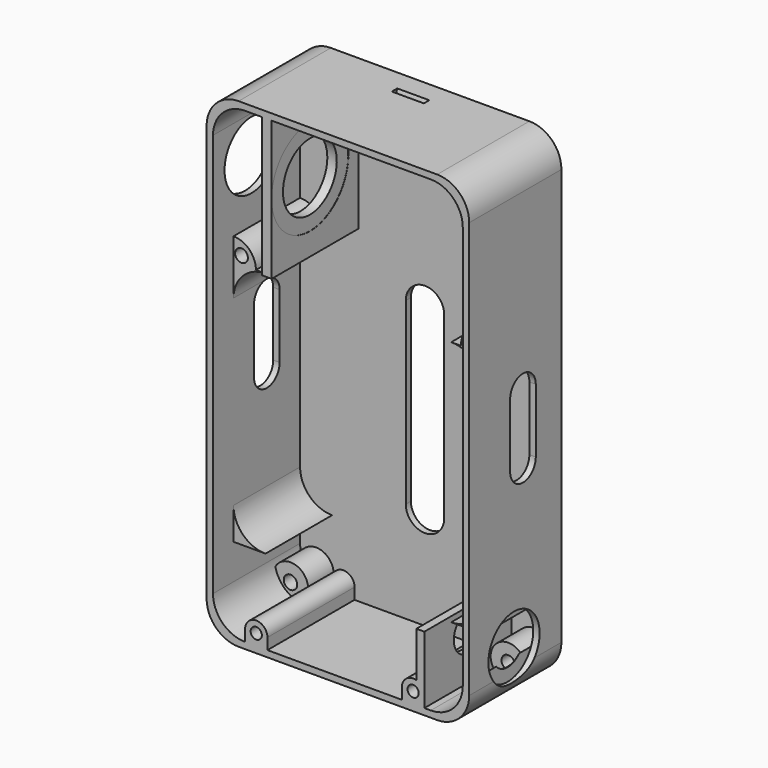
from build123d import *

# Parameters (mm, degrees)
CYLINDER105_R             = 6
CYLINDER105_DEPTH         = 2
BOX042_W                  = 12
BOX042_H                  = 2
BOX042_DEPTH              = 56
CYLINDER106_R             = 6
CYLINDER106_DEPTH         = 2
CYLINDER104_W             = 5
CYLINDER104_H             = 82
CYLINDER104_ANGLE         = 180
BOX041_W                  = 82
BOX041_H                  = 5
BOX041_DEPTH              = 10
CUT048_PLACEMENT_ANGLE    = 180
CYLINDER103_W             = 5
CYLINDER103_H             = 82
CYLINDER103_ANGLE         = 180
BOX040_W                  = 82
BOX040_H                  = 5
BOX040_DEPTH              = 10
BOX039_W                  = 82
BOX039_H                  = 30
BOX039_DEPTH              = 10
CUT049_PLACEMENT_ANGLE    = 90
CYLINDER097_R             = 10
CYLINDER097_DEPTH         = 5
CYLINDER096_R             = 6
CYLINDER096_DEPTH         = 20
FUSION028_PLACEMENT_ANGLE = 90
TUBE_R                    = 7
TUBE_R_2                  = 5
TUBE_DEPTH                = 10
CYLINDER099_R             = 15
CYLINDER099_DEPTH         = 2.25
CYLINDER098_R             = 10.5
CYLINDER098_DEPTH         = 36
FUSION029_PLACEMENT_ANGLE = 270
CYLINDER102_W             = 5
CYLINDER102_H             = 60
CYLINDER102_ANGLE         = 90
BOX038_W                  = 3
BOX038_H                  = 43.5
BOX038_DEPTH              = 34
CYLINDER093_R             = 2.1
CYLINDER093_DEPTH         = 7
CYLINDER094_R             = 2.1
CYLINDER094_DEPTH         = 7
CYLINDER095_R             = 2.1
CYLINDER095_DEPTH         = 7
CYLINDER092_R             = 2.1
CYLINDER092_DEPTH         = 7
CYLINDER087_R             = 3.75
CYLINDER087_DEPTH         = 7
CYLINDER089_R             = 3.75
CYLINDER089_DEPTH         = 7
CYLINDER091_R             = 3.75
CYLINDER091_DEPTH         = 7
CYLINDER085_R             = 3.75
CYLINDER085_DEPTH         = 7
CYLINDER086_R             = 5.5
CYLINDER086_DEPTH         = 12
CYLINDER088_R             = 5.5
CYLINDER088_DEPTH         = 12
CYLINDER090_R             = 5.5
CYLINDER090_DEPTH         = 12
CYLINDER030_R             = 2
CYLINDER030_DEPTH         = 8
CYLINDER029_R             = 2
CYLINDER029_DEPTH         = 8
CYLINDER027_W             = 7
CYLINDER027_H             = 26
CYLINDER027_ANGLE         = 90
CYLINDER028_W             = 7
CYLINDER028_H             = 26
CYLINDER028_ANGLE         = 90
CYLINDER022_R             = 1.75
CYLINDER022_DEPTH         = 8
CYLINDER026_R             = 7
CYLINDER026_DEPTH         = 5
CYLINDER025_R             = 6
CYLINDER025_DEPTH         = 20
FUSION007_PLACEMENT_ANGLE = 90
CYLINDER024_R             = 1.75
CYLINDER024_DEPTH         = 8
CYLINDER023_R             = 3.5
CYLINDER023_DEPTH         = 34
BOX022_W                  = 7
BOX022_H                  = 34
BOX022_DEPTH              = 3.5
BOX023_W                  = 7
BOX023_H                  = 34
BOX023_DEPTH              = 3.5
BOX024_W                  = 2.5
BOX024_H                  = 34
BOX024_DEPTH              = 17.5
CYLINDER017_W             = 10
CYLINDER017_H             = 26
CYLINDER017_ANGLE         = 90
BOX018_W                  = 10
BOX018_H                  = 26
BOX018_DEPTH              = 10
CUT018_PLACEMENT_ANGLE    = 180
CYLINDER018_W             = 10
CYLINDER018_H             = 26
CYLINDER018_ANGLE         = 90
BOX019_W                  = 10
BOX019_H                  = 26
BOX019_DEPTH              = 10
CUT019_PLACEMENT_ANGLE    = 90
CYLINDER019_W             = 10
CYLINDER019_H             = 26
CYLINDER019_ANGLE         = 90
BOX020_W                  = 10
BOX020_H                  = 26
BOX020_DEPTH              = 10
CYLINDER020_W             = 10
CYLINDER020_H             = 26
CYLINDER020_ANGLE         = 90
BOX021_W                  = 10
BOX021_H                  = 26
BOX021_DEPTH              = 10
CUT021_PLACEMENT_ANGLE    = 90
CYLINDER014_W             = 10
CYLINDER014_H             = 34
CYLINDER014_ANGLE         = 90
BOX015_W                  = 10
BOX015_H                  = 34
BOX015_DEPTH              = 10
CUT013_PLACEMENT_ANGLE    = 180
CYLINDER015_W             = 10
CYLINDER015_H             = 34
CYLINDER015_ANGLE         = 90
BOX016_W                  = 10
BOX016_H                  = 34
BOX016_DEPTH              = 10
CUT014_PLACEMENT_ANGLE    = 180
CYLINDER016_W             = 10
CYLINDER016_H             = 34
CYLINDER016_ANGLE         = 90
BOX017_W                  = 10
BOX017_H                  = 34
BOX017_DEPTH              = 10
CUT015_PITCH_ANGLE        = -90
CUT015_PLACEMENT_ANGLE    = 180
CYLINDER013_W             = 10
CYLINDER013_H             = 34
CYLINDER013_ANGLE         = 90
BOX013_W                  = 10
BOX013_H                  = 34
BOX013_DEPTH              = 10
CUT012_PITCH_ANGLE        = 90
CUT012_PLACEMENT_ANGLE    = -180
BOX014_W                  = 78
BOX014_H                  = 34
BOX014_DEPTH              = 146
CYLINDER009_W             = 10
CYLINDER009_H             = 36
CYLINDER009_ANGLE         = 90
BOX009_W                  = 10
BOX009_H                  = 36
BOX009_DEPTH              = 10
CUT007_PLACEMENT_ANGLE    = 180
CYLINDER010_W             = 10
CYLINDER010_H             = 36
CYLINDER010_ANGLE         = 90
BOX010_W                  = 10
BOX010_H                  = 36
BOX010_DEPTH              = 10
CUT008_PLACEMENT_ANGLE    = 180
CYLINDER011_W             = 10
CYLINDER011_H             = 36
CYLINDER011_ANGLE         = 90
BOX011_W                  = 10
BOX011_H                  = 36
BOX011_DEPTH              = 10
CUT009_PITCH_ANGLE        = -90
CUT009_PLACEMENT_ANGLE    = -180
CYLINDER008_W             = 10
CYLINDER008_H             = 36
CYLINDER008_ANGLE         = 90
BOX007_W                  = 10
BOX007_H                  = 36
BOX007_DEPTH              = 10
CUT006_PITCH_ANGLE        = 90
CUT006_PLACEMENT_ANGLE    = -180
BOX008_W                  = 82
BOX008_H                  = 36
BOX008_DEPTH              = 150
CYLINDER021_R             = 3.5
CYLINDER021_DEPTH         = 34
CYLINDER084_R             = 5.5
CYLINDER084_DEPTH         = 12


with BuildPart() as cylinder105:
    # Cylinder105 → Cylinder105 (new body)
    with BuildSketch(Plane(origin=(6, 0, 0), x_dir=(-1, 0, 0), z_dir=(0, 1, 0))):
        Circle(CYLINDER105_R)
    extrude(amount=CYLINDER105_DEPTH)


with BuildPart() as cube034:
    # Box042 → Box042 (new body)
    with BuildSketch(Plane.XY):
        with Locations((6, 1)):
            Rectangle(BOX042_W, BOX042_H)
    extrude(amount=BOX042_DEPTH)


with BuildPart() as obj1:
    # Cylinder106 → Cylinder106 (new body)
    with BuildSketch(Plane(origin=(6, 0, 56), x_dir=(-1, 0, 0), z_dir=(0, 1, 0))):
        Circle(CYLINDER106_R)
    extrude(amount=CYLINDER106_DEPTH)

    # Fusion035: union Cylinder105, Cube034
    add(cylinder105.part)
    add(cube034.part)


with BuildPart() as obj1_1:
    # Fusion035 placement: moved
    add(obj1.part.moved(Location((33, 24, 31.5))))


with BuildPart() as cylinder104:
    # Cylinder104 → Cylinder104 (revolve)
    with BuildSketch(Plane(origin=(0, 5, 5), x_dir=(0, 0, 1), z_dir=(0, 1, 0))):
        with Locations((2.5, 41)):
            Rectangle(CYLINDER104_W, CYLINDER104_H)
    revolve(axis=Axis((0, 5, 5), (1, 0, 0)), revolution_arc=CYLINDER104_ANGLE)


with BuildPart() as cornercuts001:
    # Box041 → Box041 (new body)
    with BuildSketch(Plane.XY):
        with Locations((41, 2.5)):
            Rectangle(BOX041_W, BOX041_H)
    extrude(amount=BOX041_DEPTH)

    # Cut048: cut Cylinder104
    add(cylinder104.part, mode=Mode.SUBTRACT)


with BuildPart() as cornercuts001_1:
    # Cut048 placement: moved
    add(cornercuts001.part.moved(Location((0, 30, 10))).rotate(Axis((0, 30, 10), (1, 0, 0)), CUT048_PLACEMENT_ANGLE))


with BuildPart() as cylinder103:
    # Cylinder103 → Cylinder103 (revolve)
    with BuildSketch(Plane(origin=(0, 5, 5), x_dir=(0, 0, 1), z_dir=(0, 1, 0))):
        with Locations((2.5, 41)):
            Rectangle(CYLINDER103_W, CYLINDER103_H)
    revolve(axis=Axis((0, 5, 5), (1, 0, 0)), revolution_arc=CYLINDER103_ANGLE)


with BuildPart() as fusion034:
    # Box040 → Box040 (new body)
    with BuildSketch(Plane.XY):
        with Locations((41, 2.5)):
            Rectangle(BOX040_W, BOX040_H)
    extrude(amount=BOX040_DEPTH)

    # Cut047: cut Cylinder103
    add(cylinder103.part, mode=Mode.SUBTRACT)

    # Fusion034: union cornerCuts001
    add(cornercuts001_1.part)


with BuildPart() as usbcut001:
    # Box039 → Box039 (new body)
    with BuildSketch(Plane.XY):
        with Locations((41, 15)):
            Rectangle(BOX039_W, BOX039_H)
    extrude(amount=BOX039_DEPTH)

    # Cut049: cut Fusion034
    add(fusion034.part, mode=Mode.SUBTRACT)


with BuildPart() as usbcut001_1:
    # Cut049 placement: moved
    add(usbcut001.part.moved(Location((-2, 16, 58))).rotate(Axis((-2, 16, 58), (1, 0, 0)), CUT049_PLACEMENT_ANGLE))


with BuildPart() as cylinder097:
    # Cylinder097 → Cylinder097 (new body)
    with BuildSketch(Plane.XY):
        Circle(CYLINDER097_R)
    extrude(amount=CYLINDER097_DEPTH)


with BuildPart() as switch:
    # Cylinder096 → Cylinder096 (new body)
    with BuildSketch(Plane.XY):
        Circle(CYLINDER096_R)
    extrude(amount=CYLINDER096_DEPTH)

    # Fusion028: union Cylinder097
    add(cylinder097.part)


with BuildPart() as switch_1:
    # Fusion028 placement: moved
    add(switch.part.moved(Location((83, 7.5, 14))).rotate(Axis((83, 7.5, 14), (0, -1, 0)), FUSION028_PLACEMENT_ANGLE))


with BuildPart() as hookcut:
    # Tube → Tube (new body)
    with BuildSketch(Plane(origin=(34, 24, 146), x_dir=(0, 0, -1), z_dir=(1, 0, 0))):
        Circle(TUBE_R)
        Circle(TUBE_R_2, mode=Mode.SUBTRACT)
    extrude(amount=TUBE_DEPTH)


with BuildPart() as ethernet001:
    # Cylinder099 → Cylinder099 (new body)
    with BuildSketch(Plane.XY.offset(13.5)):
        Circle(CYLINDER099_R)
    extrude(amount=CYLINDER099_DEPTH)


with BuildPart() as basebottomcuts:
    # Cylinder098 → Cylinder098 (new body)
    with BuildSketch(Plane.XY):
        Circle(CYLINDER098_R)
    extrude(amount=CYLINDER098_DEPTH)

    # Fusion029: union Ethernet001
    add(ethernet001.part)


with BuildPart() as basebottomcuts_1:
    # Fusion029 placement: moved
    add(basebottomcuts.part.moved(Location((34, 5, 124.5))).rotate(Axis((34, 5, 124.5), (0, 1, 0)), FUSION029_PLACEMENT_ANGLE))

    # Fusion033: union Switch, hookCut
    add(switch_1.part)
    add(hookcut.part)


with BuildPart() as obj2:
    # Cylinder102 → Cylinder102 (revolve)
    with BuildSketch(Plane(origin=(9, 24, 146), x_dir=(0, -1, 0), z_dir=(0, 0, 1))):
        with Locations((2.5, 30)):
            Rectangle(CYLINDER102_W, CYLINDER102_H)
    revolve(axis=Axis((9, 24, 146), (1, 0, 0)), revolution_arc=CYLINDER102_ANGLE)


with BuildPart() as ethernethold:
    # Box038 → Box038 (new body)
    with BuildSketch(Plane(origin=(15.3, 24, 102.5), x_dir=(1, 0, 0), z_dir=(0, -1, 0))):
        with Locations((1.5, 21.75)):
            Rectangle(BOX038_W, BOX038_H)
    extrude(amount=BOX038_DEPTH)


with BuildPart() as m4holebasecut005:
    # Cylinder093 → Cylinder093 (new body)
    with BuildSketch(Plane(origin=(5, 26, 5), x_dir=(-1, 0, 0), z_dir=(0, -1, 0))):
        Circle(CYLINDER093_R)
    extrude(amount=CYLINDER093_DEPTH)


with BuildPart() as m4holebasecut006:
    # Cylinder094 → Cylinder094 (new body)
    with BuildSketch(Plane(origin=(73, 26, 141), x_dir=(-1, 0, 0), z_dir=(0, -1, 0))):
        Circle(CYLINDER094_R)
    extrude(amount=CYLINDER094_DEPTH)


with BuildPart() as m4holebasecut007:
    # Cylinder095 → Cylinder095 (new body)
    with BuildSketch(Plane(origin=(5, 26, 141), x_dir=(-1, 0, 0), z_dir=(0, -1, 0))):
        Circle(CYLINDER095_R)
    extrude(amount=CYLINDER095_DEPTH)


with BuildPart() as m4cuts001:
    # Cylinder092 → Cylinder092 (new body)
    with BuildSketch(Plane(origin=(73, 26, 5), x_dir=(-1, 0, 0), z_dir=(0, -1, 0))):
        Circle(CYLINDER092_R)
    extrude(amount=CYLINDER092_DEPTH)

    # Fusion027: union m4HoleBaseCut005, m4HoleBaseCut006, m4HoleBaseCut007
    add(m4holebasecut005.part)
    add(m4holebasecut006.part)
    add(m4holebasecut007.part)


with BuildPart() as m4cuts001_1:
    # Fusion027 placement: moved
    add(m4cuts001.part.moved(Location((0, -5, 0))))


with BuildPart() as m4holebasecut001:
    # Cylinder087 → Cylinder087 (new body)
    with BuildSketch(Plane(origin=(5, 26, 5), x_dir=(-1, 0, 0), z_dir=(0, -1, 0))):
        Circle(CYLINDER087_R)
    extrude(amount=CYLINDER087_DEPTH)


with BuildPart() as m4holebasecut002:
    # Cylinder089 → Cylinder089 (new body)
    with BuildSketch(Plane(origin=(73, 26, 141), x_dir=(-1, 0, 0), z_dir=(0, -1, 0))):
        Circle(CYLINDER089_R)
    extrude(amount=CYLINDER089_DEPTH)


with BuildPart() as m4holebasecut003:
    # Cylinder091 → Cylinder091 (new body)
    with BuildSketch(Plane(origin=(5, 26, 141), x_dir=(-1, 0, 0), z_dir=(0, -1, 0))):
        Circle(CYLINDER091_R)
    extrude(amount=CYLINDER091_DEPTH)


with BuildPart() as m4cuts:
    # Cylinder085 → Cylinder085 (new body)
    with BuildSketch(Plane(origin=(73, 26, 5), x_dir=(-1, 0, 0), z_dir=(0, -1, 0))):
        Circle(CYLINDER085_R)
    extrude(amount=CYLINDER085_DEPTH)

    # Fusion026: union m4HoleBaseCut001, m4HoleBaseCut002, m4HoleBaseCut003
    add(m4holebasecut001.part)
    add(m4holebasecut002.part)
    add(m4holebasecut003.part)


with BuildPart() as m4holebase007:
    # Cylinder086 → Cylinder086 (new body)
    with BuildSketch(Plane(origin=(5, 26, 5), x_dir=(-1, 0, 0), z_dir=(0, -1, 0))):
        Circle(CYLINDER086_R)
    extrude(amount=CYLINDER086_DEPTH)


with BuildPart() as m4holebase008:
    # Cylinder088 → Cylinder088 (new body)
    with BuildSketch(Plane(origin=(73, 26, 141), x_dir=(-1, 0, 0), z_dir=(0, -1, 0))):
        Circle(CYLINDER088_R)
    extrude(amount=CYLINDER088_DEPTH)


with BuildPart() as m4holebase009:
    # Cylinder090 → Cylinder090 (new body)
    with BuildSketch(Plane(origin=(5, 26, 141), x_dir=(-1, 0, 0), z_dir=(0, -1, 0))):
        Circle(CYLINDER090_R)
    extrude(amount=CYLINDER090_DEPTH)


with BuildPart() as cylinder030:
    # Cylinder030 → Cylinder030 (new body)
    with BuildSketch(Plane(origin=(75.5, -2, 100.5), x_dir=(1, 0, 0), z_dir=(0, -1, 0))):
        Circle(CYLINDER030_R)
    extrude(amount=CYLINDER030_DEPTH)


with BuildPart() as basecuts001:
    # Cylinder029 → Cylinder029 (new body)
    with BuildSketch(Plane(origin=(2.5, -2, 100.5), x_dir=(1, 0, 0), z_dir=(0, -1, 0))):
        Circle(CYLINDER029_R)
    extrude(amount=CYLINDER029_DEPTH)

    # Fusion011: union Cylinder030
    add(cylinder030.part)


with BuildPart() as basecuts001_1:
    # Fusion011 placement: moved
    add(basecuts001.part.moved(Location((0, 8, 0))))


with BuildPart() as mainmounts:
    # Cylinder027 → Cylinder027 (revolve)
    with BuildSketch(Plane(origin=(0, 24, 98), x_dir=(1, 0, 0), z_dir=(0, 0, -1))):
        with Locations((3.5, 13)):
            Rectangle(CYLINDER027_W, CYLINDER027_H)
    revolve(axis=Axis((0, 24, 98), (0, -1, 0)), revolution_arc=CYLINDER027_ANGLE)


with BuildPart() as fusion012:
    # Cylinder028 → Cylinder028 (revolve)
    with BuildSketch(Plane(origin=(78, 24, 98), x_dir=(0, 0, 1), z_dir=(1, 0, 0))):
        with Locations((3.5, 13)):
            Rectangle(CYLINDER028_W, CYLINDER028_H)
    revolve(axis=Axis((78, 24, 98), (0, -1, 0)), revolution_arc=CYLINDER028_ANGLE)

    # Fusion012: union mainMounts
    add(mainmounts.part)


with BuildPart() as cylinder022:
    # Cylinder022 → Cylinder022 (new body)
    with BuildSketch(Plane(origin=(13.5, -2, 3.5), x_dir=(1, 0, 0), z_dir=(0, -1, 0))):
        Circle(CYLINDER022_R)
    extrude(amount=CYLINDER022_DEPTH)


with BuildPart() as cylinder026:
    # Cylinder026 → Cylinder026 (new body)
    with BuildSketch(Plane.XY):
        Circle(CYLINDER026_R)
    extrude(amount=CYLINDER026_DEPTH)


with BuildPart() as powerswitch:
    # Cylinder025 → Cylinder025 (new body)
    with BuildSketch(Plane.XY):
        Circle(CYLINDER025_R)
    extrude(amount=CYLINDER025_DEPTH)

    # Fusion007: union Cylinder026
    add(cylinder026.part)


with BuildPart() as powerswitch_1:
    # Fusion007 placement: moved
    add(powerswitch.part.moved(Location((71, 7.5, 14))).rotate(Axis((71, 7.5, 14), (0, -1, 0)), FUSION007_PLACEMENT_ANGLE))


with BuildPart() as basecuts:
    # Cylinder024 → Cylinder024 (new body)
    with BuildSketch(Plane(origin=(62.5, -2, 3.5), x_dir=(1, 0, 0), z_dir=(0, -1, 0))):
        Circle(CYLINDER024_R)
    extrude(amount=CYLINDER024_DEPTH)

    # Fusion010: union Cylinder022, powerSwitch
    add(cylinder022.part)
    add(powerswitch_1.part)


with BuildPart() as cylinder023:
    # Cylinder023 → Cylinder023 (new body)
    with BuildSketch(Plane(origin=(62.5, 24, 3.5), x_dir=(1, 0, 0), z_dir=(0, -1, 0))):
        Circle(CYLINDER023_R)
    extrude(amount=CYLINDER023_DEPTH)


with BuildPart() as cube017:
    # Box022 → Box022 (new body)
    with BuildSketch(Plane(origin=(10, 24, 3.5), x_dir=(1, 0, 0), z_dir=(0, 0, -1))):
        with Locations((3.5, 17)):
            Rectangle(BOX022_W, BOX022_H)
    extrude(amount=BOX022_DEPTH)


with BuildPart() as cube018:
    # Box023 → Box023 (new body)
    with BuildSketch(Plane(origin=(59, 24, 3.5), x_dir=(1, 0, 0), z_dir=(0, 0, -1))):
        with Locations((3.5, 17)):
            Rectangle(BOX023_W, BOX023_H)
    extrude(amount=BOX023_DEPTH)


with BuildPart() as cube019:
    # Box024 → Box024 (new body)
    with BuildSketch(Plane(origin=(63.5, 24, 21), x_dir=(1, 0, 0), z_dir=(0, 0, -1))):
        with Locations((1.25, 17)):
            Rectangle(BOX024_W, BOX024_H)
    extrude(amount=BOX024_DEPTH)


with BuildPart() as cylinder017:
    # Cylinder017 → Cylinder017 (revolve)
    with BuildSketch(Plane(origin=(0, 26, 0), x_dir=(1, 0, 0), z_dir=(0, 0, -1))):
        with Locations((5, 13)):
            Rectangle(CYLINDER017_W, CYLINDER017_H)
    revolve(axis=Axis((0, 26, 0), (0, -1, 0)), revolution_arc=CYLINDER017_ANGLE)


with BuildPart() as batterysupport:
    # Box018 → Box018 (new body)
    with BuildSketch(Plane(origin=(10, 26, 0), x_dir=(-1, 0, 0), z_dir=(0, 0, 1))):
        with Locations((5, 13)):
            Rectangle(BOX018_W, BOX018_H)
    extrude(amount=BOX018_DEPTH)

    # Cut018: cut Cylinder017
    add(cylinder017.part, mode=Mode.SUBTRACT)


with BuildPart() as batterysupport_1:
    # Cut018 placement: moved
    add(batterysupport.part.moved(Location((10, -2, 31))).rotate(Axis((10, -2, 31), (0, 1, 0)), CUT018_PLACEMENT_ANGLE))


with BuildPart() as cylinder018:
    # Cylinder018 → Cylinder018 (revolve)
    with BuildSketch(Plane(origin=(0, 26, 0), x_dir=(1, 0, 0), z_dir=(0, 0, -1))):
        with Locations((5, 13)):
            Rectangle(CYLINDER018_W, CYLINDER018_H)
    revolve(axis=Axis((0, 26, 0), (0, -1, 0)), revolution_arc=CYLINDER018_ANGLE)


with BuildPart() as batterysupport001:
    # Box019 → Box019 (new body)
    with BuildSketch(Plane(origin=(10, 26, 0), x_dir=(-1, 0, 0), z_dir=(0, 0, 1))):
        with Locations((5, 13)):
            Rectangle(BOX019_W, BOX019_H)
    extrude(amount=BOX019_DEPTH)

    # Cut019: cut Cylinder018
    add(cylinder018.part, mode=Mode.SUBTRACT)


with BuildPart() as batterysupport001_1:
    # Cut019 placement: moved
    add(batterysupport001.part.moved(Location((68, -2, 31))).rotate(Axis((68, -2, 31), (0, 1, 0)), CUT019_PLACEMENT_ANGLE))


with BuildPart() as cylinder019:
    # Cylinder019 → Cylinder019 (revolve)
    with BuildSketch(Plane(origin=(0, 26, 0), x_dir=(1, 0, 0), z_dir=(0, 0, -1))):
        with Locations((5, 13)):
            Rectangle(CYLINDER019_W, CYLINDER019_H)
    revolve(axis=Axis((0, 26, 0), (0, -1, 0)), revolution_arc=CYLINDER019_ANGLE)


with BuildPart() as batterysupport002:
    # Box020 → Box020 (new body)
    with BuildSketch(Plane(origin=(10, 26, 0), x_dir=(-1, 0, 0), z_dir=(0, 0, 1))):
        with Locations((5, 13)):
            Rectangle(BOX020_W, BOX020_H)
    extrude(amount=BOX020_DEPTH)

    # Cut020: cut Cylinder019
    add(cylinder019.part, mode=Mode.SUBTRACT)


with BuildPart() as batterysupport002_1:
    # Cut020 placement: moved
    add(batterysupport002.part.moved(Location((68, -2, 88))))


with BuildPart() as cylinder020:
    # Cylinder020 → Cylinder020 (revolve)
    with BuildSketch(Plane(origin=(0, 26, 0), x_dir=(1, 0, 0), z_dir=(0, 0, -1))):
        with Locations((5, 13)):
            Rectangle(CYLINDER020_W, CYLINDER020_H)
    revolve(axis=Axis((0, 26, 0), (0, -1, 0)), revolution_arc=CYLINDER020_ANGLE)


with BuildPart() as batterysupport003:
    # Box021 → Box021 (new body)
    with BuildSketch(Plane(origin=(10, 26, 0), x_dir=(-1, 0, 0), z_dir=(0, 0, 1))):
        with Locations((5, 13)):
            Rectangle(BOX021_W, BOX021_H)
    extrude(amount=BOX021_DEPTH)

    # Cut021: cut Cylinder020
    add(cylinder020.part, mode=Mode.SUBTRACT)


with BuildPart() as batterysupport003_1:
    # Cut021 placement: moved
    add(batterysupport003.part.moved(Location((10, -2, 88))).rotate(Axis((10, -2, 88), (0, -1, 0)), CUT021_PLACEMENT_ANGLE))


with BuildPart() as cylinder014:
    # Cylinder014 → Cylinder014 (revolve)
    with BuildSketch(Plane(origin=(0, 26, 0), x_dir=(1, 0, 0), z_dir=(0, 0, -1))):
        with Locations((5, 17)):
            Rectangle(CYLINDER014_W, CYLINDER014_H)
    revolve(axis=Axis((0, 26, 0), (0, -1, 0)), revolution_arc=CYLINDER014_ANGLE)


with BuildPart() as cut013:
    # Box015 → Box015 (new body)
    with BuildSketch(Plane(origin=(0, -8, 0), x_dir=(1, 0, 0), z_dir=(0, 0, 1))):
        with Locations((5, 17)):
            Rectangle(BOX015_W, BOX015_H)
    extrude(amount=BOX015_DEPTH)

    # Cut013: cut Cylinder014
    add(cylinder014.part, mode=Mode.SUBTRACT)


with BuildPart() as cut013_1:
    # Cut013 placement: moved
    add(cut013.part.moved(Location((70, 18, 8))).rotate(Axis((70, 18, 8), (1, 0, 0)), CUT013_PLACEMENT_ANGLE))


with BuildPart() as cylinder015:
    # Cylinder015 → Cylinder015 (revolve)
    with BuildSketch(Plane(origin=(0, 26, 0), x_dir=(1, 0, 0), z_dir=(0, 0, -1))):
        with Locations((5, 17)):
            Rectangle(CYLINDER015_W, CYLINDER015_H)
    revolve(axis=Axis((0, 26, 0), (0, -1, 0)), revolution_arc=CYLINDER015_ANGLE)


with BuildPart() as cut014:
    # Box016 → Box016 (new body)
    with BuildSketch(Plane(origin=(0, -8, 0), x_dir=(1, 0, 0), z_dir=(0, 0, 1))):
        with Locations((5, 17)):
            Rectangle(BOX016_W, BOX016_H)
    extrude(amount=BOX016_DEPTH)

    # Cut014: cut Cylinder015
    add(cylinder015.part, mode=Mode.SUBTRACT)


with BuildPart() as cut014_1:
    # Cut014 placement: moved
    add(cut014.part.moved(Location((12, 18, 134))).rotate(Axis((12, 18, 134), (0, 0, 1)), CUT014_PLACEMENT_ANGLE))


with BuildPart() as cylinder016:
    # Cylinder016 → Cylinder016 (revolve)
    with BuildSketch(Plane(origin=(0, 26, 0), x_dir=(1, 0, 0), z_dir=(0, 0, -1))):
        with Locations((5, 17)):
            Rectangle(CYLINDER016_W, CYLINDER016_H)
    revolve(axis=Axis((0, 26, 0), (0, -1, 0)), revolution_arc=CYLINDER016_ANGLE)


with BuildPart() as cut015:
    # Box017 → Box017 (new body)
    with BuildSketch(Plane(origin=(0, -8, 0), x_dir=(1, 0, 0), z_dir=(0, 0, 1))):
        with Locations((5, 17)):
            Rectangle(BOX017_W, BOX017_H)
    extrude(amount=BOX017_DEPTH)

    # Cut015: cut Cylinder016
    add(cylinder016.part, mode=Mode.SUBTRACT)


with BuildPart() as cut015_1:
    # Cut015 pitch: moved
    add(cut015.part.rotate(Axis((0, 0, 0), (0, 1, 0)), CUT015_PITCH_ANGLE))


with BuildPart() as cut015_2:
    # Cut015 placement: moved
    add(cut015_1.part.moved(Location((70, 18, 134))).rotate(Axis((70, 18, 134), (0, 0, 1)), CUT015_PLACEMENT_ANGLE))


with BuildPart() as cylinder013:
    # Cylinder013 → Cylinder013 (revolve)
    with BuildSketch(Plane(origin=(0, 26, 0), x_dir=(1, 0, 0), z_dir=(0, 0, -1))):
        with Locations((5, 17)):
            Rectangle(CYLINDER013_W, CYLINDER013_H)
    revolve(axis=Axis((0, 26, 0), (0, -1, 0)), revolution_arc=CYLINDER013_ANGLE)


with BuildPart() as fusion006:
    # Box013 → Box013 (new body)
    with BuildSketch(Plane(origin=(0, -8, 0), x_dir=(1, 0, 0), z_dir=(0, 0, 1))):
        with Locations((5, 17)):
            Rectangle(BOX013_W, BOX013_H)
    extrude(amount=BOX013_DEPTH)

    # Cut012: cut Cylinder013
    add(cylinder013.part, mode=Mode.SUBTRACT)


with BuildPart() as fusion006_1:
    # Cut012 pitch: moved
    add(fusion006.part.rotate(Axis((0, 0, 0), (0, 1, 0)), CUT012_PITCH_ANGLE))


with BuildPart() as fusion006_2:
    # Cut012 placement: moved
    add(fusion006_1.part.moved(Location((12, 18, 8))).rotate(Axis((12, 18, 8), (0, 0, 1)), CUT012_PLACEMENT_ANGLE))

    # Fusion006: union Cut013, Cut014, Cut015
    add(cut013_1.part)
    add(cut014_1.part)
    add(cut015_2.part)


with BuildPart() as obj3:
    # Box014 → Box014 (new body)
    with BuildSketch(Plane(origin=(80, 26, -2), x_dir=(-1, 0, 0), z_dir=(0, 0, 1))):
        with Locations((39, 17)):
            Rectangle(BOX014_W, BOX014_H)
    extrude(amount=BOX014_DEPTH)

    # Cut016: cut Fusion006
    add(fusion006_2.part, mode=Mode.SUBTRACT)


with BuildPart() as obj3_1:
    # Cut016 placement: moved
    add(obj3.part.moved(Location((-2, -2, 2))))


with BuildPart() as cylinder009:
    # Cylinder009 → Cylinder009 (revolve)
    with BuildSketch(Plane(origin=(0, 26, 0), x_dir=(1, 0, 0), z_dir=(0, 0, -1))):
        with Locations((5, 18)):
            Rectangle(CYLINDER009_W, CYLINDER009_H)
    revolve(axis=Axis((0, 26, 0), (0, -1, 0)), revolution_arc=CYLINDER009_ANGLE)


with BuildPart() as cut007:
    # Box009 → Box009 (new body)
    with BuildSketch(Plane(origin=(0, -10, 0), x_dir=(1, 0, 0), z_dir=(0, 0, 1))):
        with Locations((5, 18)):
            Rectangle(BOX009_W, BOX009_H)
    extrude(amount=BOX009_DEPTH)

    # Cut007: cut Cylinder009
    add(cylinder009.part, mode=Mode.SUBTRACT)


with BuildPart() as cut007_1:
    # Cut007 placement: moved
    add(cut007.part.moved(Location((70, 18, 8))).rotate(Axis((70, 18, 8), (1, 0, 0)), CUT007_PLACEMENT_ANGLE))


with BuildPart() as cylinder010:
    # Cylinder010 → Cylinder010 (revolve)
    with BuildSketch(Plane(origin=(0, 26, 0), x_dir=(1, 0, 0), z_dir=(0, 0, -1))):
        with Locations((5, 18)):
            Rectangle(CYLINDER010_W, CYLINDER010_H)
    revolve(axis=Axis((0, 26, 0), (0, -1, 0)), revolution_arc=CYLINDER010_ANGLE)


with BuildPart() as cut008:
    # Box010 → Box010 (new body)
    with BuildSketch(Plane(origin=(0, -10, 0), x_dir=(1, 0, 0), z_dir=(0, 0, 1))):
        with Locations((5, 18)):
            Rectangle(BOX010_W, BOX010_H)
    extrude(amount=BOX010_DEPTH)

    # Cut008: cut Cylinder010
    add(cylinder010.part, mode=Mode.SUBTRACT)


with BuildPart() as cut008_1:
    # Cut008 placement: moved
    add(cut008.part.moved(Location((8, 18, 138))).rotate(Axis((8, 18, 138), (0, 0, 1)), CUT008_PLACEMENT_ANGLE))


with BuildPart() as cylinder011:
    # Cylinder011 → Cylinder011 (revolve)
    with BuildSketch(Plane(origin=(0, 26, 0), x_dir=(1, 0, 0), z_dir=(0, 0, -1))):
        with Locations((5, 18)):
            Rectangle(CYLINDER011_W, CYLINDER011_H)
    revolve(axis=Axis((0, 26, 0), (0, -1, 0)), revolution_arc=CYLINDER011_ANGLE)


with BuildPart() as cut009:
    # Box011 → Box011 (new body)
    with BuildSketch(Plane(origin=(0, -10, 0), x_dir=(1, 0, 0), z_dir=(0, 0, 1))):
        with Locations((5, 18)):
            Rectangle(BOX011_W, BOX011_H)
    extrude(amount=BOX011_DEPTH)

    # Cut009: cut Cylinder011
    add(cylinder011.part, mode=Mode.SUBTRACT)


with BuildPart() as cut009_1:
    # Cut009 pitch: moved
    add(cut009.part.rotate(Axis((0, 0, 0), (0, 1, 0)), CUT009_PITCH_ANGLE))


with BuildPart() as cut009_2:
    # Cut009 placement: moved
    add(cut009_1.part.moved(Location((70, 18, 138))).rotate(Axis((70, 18, 138), (0, 0, 1)), CUT009_PLACEMENT_ANGLE))


with BuildPart() as cylinder008:
    # Cylinder008 → Cylinder008 (revolve)
    with BuildSketch(Plane(origin=(0, 26, 0), x_dir=(1, 0, 0), z_dir=(0, 0, -1))):
        with Locations((5, 18)):
            Rectangle(CYLINDER008_W, CYLINDER008_H)
    revolve(axis=Axis((0, 26, 0), (0, -1, 0)), revolution_arc=CYLINDER008_ANGLE)


with BuildPart() as fusion005:
    # Box007 → Box007 (new body)
    with BuildSketch(Plane(origin=(0, -10, 0), x_dir=(1, 0, 0), z_dir=(0, 0, 1))):
        with Locations((5, 18)):
            Rectangle(BOX007_W, BOX007_H)
    extrude(amount=BOX007_DEPTH)

    # Cut006: cut Cylinder008
    add(cylinder008.part, mode=Mode.SUBTRACT)


with BuildPart() as fusion005_1:
    # Cut006 pitch: moved
    add(fusion005.part.rotate(Axis((0, 0, 0), (0, 1, 0)), CUT006_PITCH_ANGLE))


with BuildPart() as fusion005_2:
    # Cut006 placement: moved
    add(fusion005_1.part.moved(Location((8, 18, 8))).rotate(Axis((8, 18, 8), (0, 0, 1)), CUT006_PLACEMENT_ANGLE))

    # Fusion005: union Cut007, Cut008, Cut009
    add(cut007_1.part)
    add(cut008_1.part)
    add(cut009_2.part)


with BuildPart() as fusion005_3:
    # Fusion005 placement: moved
    add(fusion005_2.part.moved(Location((0, -2, 0))))


with BuildPart() as base:
    # Box008 → Box008 (new body)
    with BuildSketch(Plane(origin=(80, 26, -2), x_dir=(-1, 0, 0), z_dir=(0, 0, 1))):
        with Locations((41, 18)):
            Rectangle(BOX008_W, BOX008_H)
    extrude(amount=BOX008_DEPTH)

    # Cut010: cut Fusion005
    add(fusion005_3.part, mode=Mode.SUBTRACT)

    # Cut017: cut obj3
    add(obj3_1.part, mode=Mode.SUBTRACT)

    # Fusion008: union batterySupport, batterySupport001, batterySupport002, batterySupport003
    add(batterysupport_1.part)
    add(batterysupport001_1.part)
    add(batterysupport002_1.part)
    add(batterysupport003_1.part)


with BuildPart() as basebottom:
    # Cylinder021 → Cylinder021 (new body)
    with BuildSketch(Plane(origin=(13.5, 24, 3.5), x_dir=(1, 0, 0), z_dir=(0, -1, 0))):
        Circle(CYLINDER021_R)
    extrude(amount=CYLINDER021_DEPTH)

    # Fusion009: union Cylinder023, Cube017, Cube018, Cube019, base
    add(cylinder023.part)
    add(cube017.part)
    add(cube018.part)
    add(cube019.part)
    add(base.part)

    # Cut022: cut baseCuts
    add(basecuts.part, mode=Mode.SUBTRACT)

    # Fusion013: union Fusion012
    add(fusion012.part)

    # Cut023: cut baseCuts001
    add(basecuts001_1.part, mode=Mode.SUBTRACT)


with BuildPart() as basebottom008:
    # Cylinder084 → Cylinder084 (new body)
    with BuildSketch(Plane(origin=(73, 26, 5), x_dir=(-1, 0, 0), z_dir=(0, -1, 0))):
        Circle(CYLINDER084_R)
    extrude(amount=CYLINDER084_DEPTH)

    # Fusion025: union m4HoleBase007, m4HoleBase008, m4HoleBase009, baseBottom
    add(m4holebase007.part)
    add(m4holebase008.part)
    add(m4holebase009.part)
    add(basebottom.part)

    # Cut044: cut m4Cuts
    add(m4cuts.part, mode=Mode.SUBTRACT)

    # Cut045: cut m4Cuts001
    add(m4cuts001_1.part, mode=Mode.SUBTRACT)

    # Fusion031: union ethernetHold
    add(ethernethold.part)

    # Fusion032: union obj2
    add(obj2.part)

    # Cut046: cut baseBottomCuts
    add(basebottomcuts_1.part, mode=Mode.SUBTRACT)

    # Cut050: cut usbCut001
    add(usbcut001_1.part, mode=Mode.SUBTRACT)

    # Cut051: cut obj1
    add(obj1_1.part, mode=Mode.SUBTRACT)


solid = basebottom008.part
